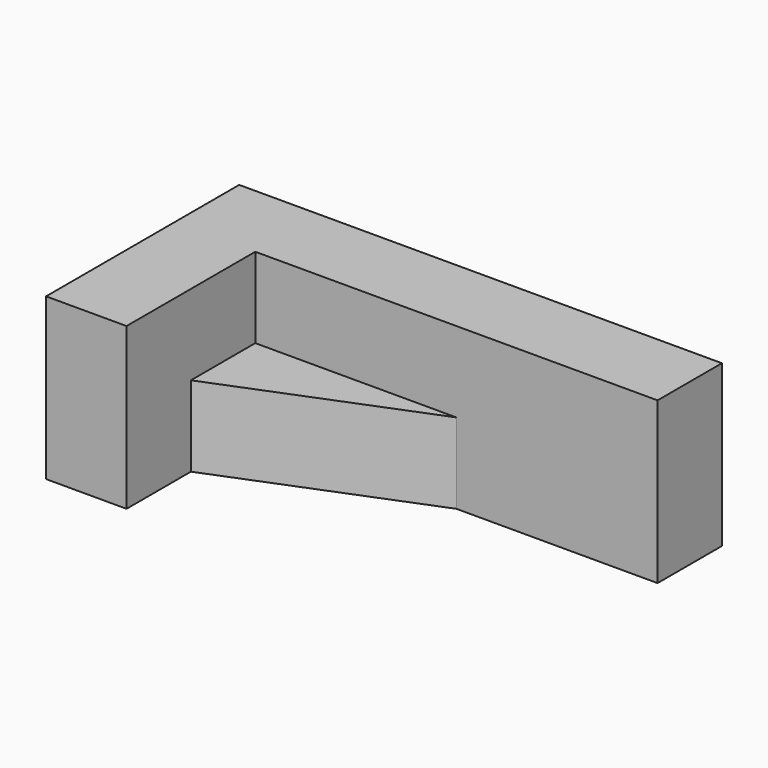
from build123d import *

# Parameters (mm, degrees)
F1_DEPTH = 50.8
F3_DEPTH = 50.8
F5_DEPTH = 25.4


with BuildPart() as f1:
    # F0 (on Top) → F1 (new body)
    with BuildSketch(Plane.XY):
        Polygon((0, 76.2), (0, 0), (25.4, 0), (25.4, 50.8), (152.4, 50.8), (152.4, 76.2), align=None)
    extrude(amount=F1_DEPTH)

    # F2 (on face) → F3 (join)
    with BuildSketch(Plane.XY.offset(50.8)):
        Polygon((25.4, 50.8), (25.4, 25.4), (88.9, 50.8), align=None)
    extrude(amount=-F3_DEPTH)

    # F4 (on face) → F5 (cut)
    with BuildSketch(Plane.XY.offset(50.8)):
        Polygon((25.4, 25.4), (88.9, 50.8), (25.4, 50.8), align=None)
    extrude(amount=-F5_DEPTH, mode=Mode.SUBTRACT)


solid = f1.part
